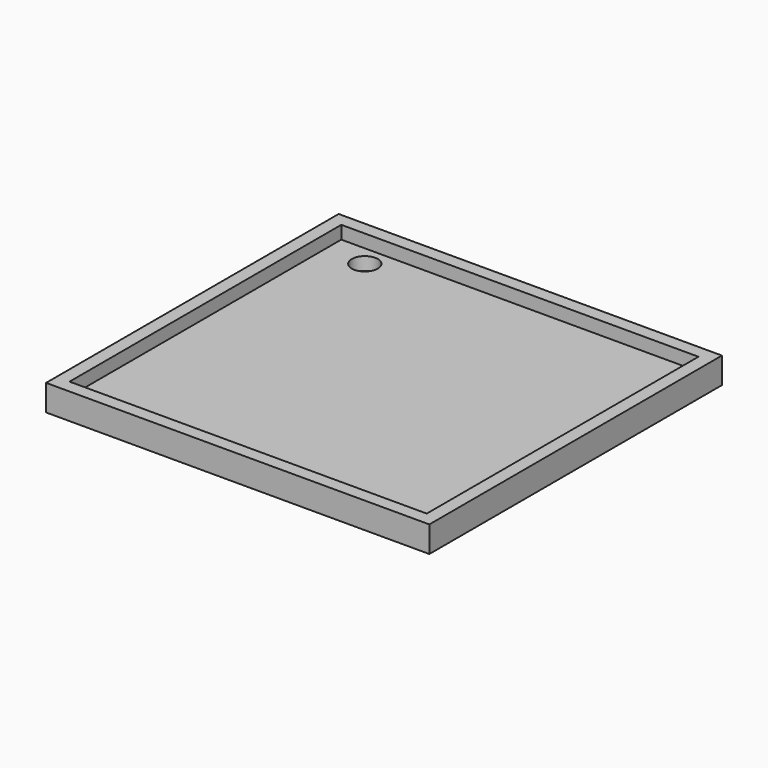
from build123d import *

# Parameters (mm, degrees)
F0_W     = 73.482446
F0_H     = 70.119202
F1_DEPTH = 5
F2_T     = -2.5
F4_D     = 5


with BuildPart() as f1:
    # F0 (on Top) → F1 (new body)
    with BuildSketch(Plane.XY):
        with Locations((36.741223, -35.059601)):
            Rectangle(F0_W, F0_H)
    extrude(amount=F1_DEPTH)

    # F2
    f2_openings = [f1.faces().sort_by_distance(p)[0] for p in [
        (36.741223, -35.059601, 5),
    ]]
    offset(amount=F2_T, openings=f2_openings)

    # F4 (through all)
    with Locations(Plane.XY.offset(2.5)):
        with Locations((10.154494, -6.421357)):
            Hole(F4_D / 2)


solid = f1.part
